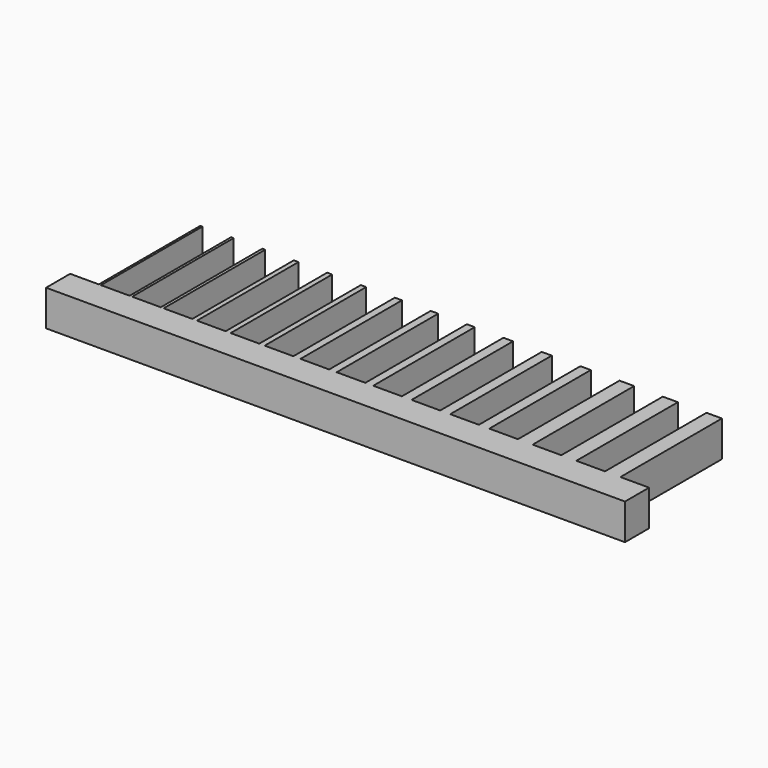
from build123d import *

# Parameters (mm, degrees)
F1_DEPTH = 5


with BuildPart() as f1:
    # F0 (on Top) → F1 (new body)
    with BuildSketch(Plane.XY):
        Polygon((0, 4.2), (0, 0), (80.8, 0), (80.8, 4.2), (76.8, 4.2), (76.8, 21.910939), (74.65, 21.910939), (74.65, 4.2), (70.65, 4.2), (70.65, 21.910939), (68.55, 21.910939), (68.55, 4.2), (64.55, 4.2), (64.55, 21.910939), (62.5, 21.910939), (62.5, 4.2), (58.5, 4.2), (58.5, 21.910939), (57.05, 21.910939), (57.05, 4.2), (53.05, 4.2), (53.05, 21.910939), (51.65, 21.910939), (51.65, 4.2), (47.65, 4.2), (47.65, 21.910939), (46.3, 21.910939), (46.3, 4.2), (42.3, 4.2), (42.3, 21.910939), (41.2, 21.910939), (41.2, 4.2), (37.2, 4.2), (37.2, 21.910939), (36.15, 21.910939), (36.15, 4.2), (32.15, 4.2), (32.15, 21.910939), (31.15, 21.910939), (31.15, 4.2), (27.15, 4.2), (27.15, 21.910939), (26.4, 21.910939), (26.4, 4.2), (22.4, 4.2), (22.4, 21.910939), (21.7, 21.910939), (21.7, 4.2), (17.7, 4.2), (17.7, 21.910939), (17.05, 21.910939), (17.05, 4.2), (13.05, 4.2), (13.05, 21.910939), (12.65, 21.910939), (12.65, 4.2), (8.65, 4.2), (8.65, 21.910939), (8.3, 21.910939), (8.3, 4.2), (4.3, 4.2), (4.3, 21.910939), (4, 21.910939), (4, 4.2), align=None)
    extrude(amount=F1_DEPTH)


solid = f1.part
